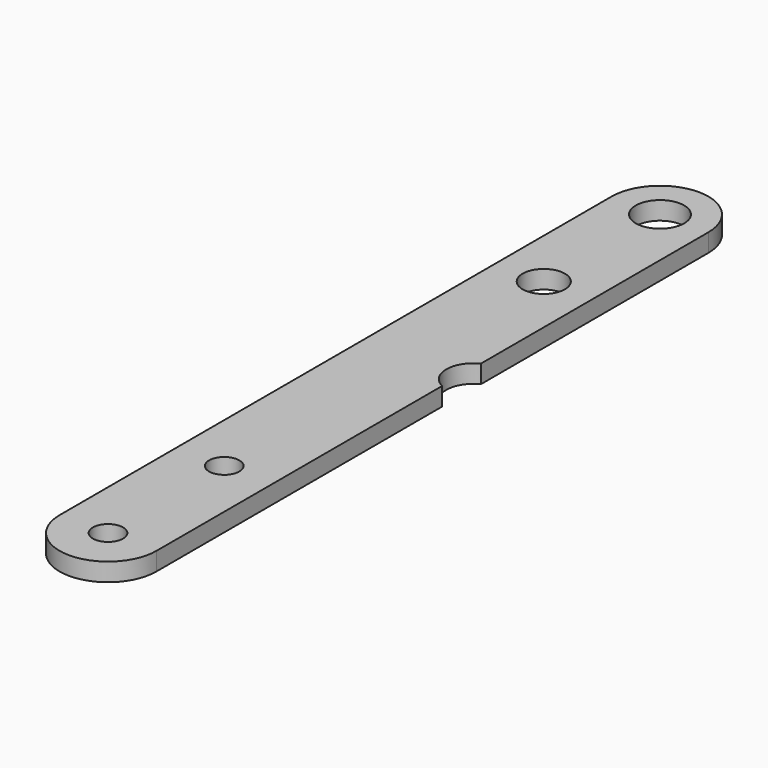
from build123d import *

# Parameters (mm, degrees)
F1_R     = 7.9375
F1_R_2   = 11.1125
F1_R_3   = 12.7
F2_DEPTH = 9.525


with BuildPart() as f2:
    # F1 (on Top) → F2 (new body)
    with BuildSketch(Plane.XY):
        with BuildLine():
            ThreePointArc((25.399975, 180.975), (-1.3e-05, 206.374987), (-25.4, 180.975))
            Line((-25.4, 180.975), (-25.4, -180.975))
            ThreePointArc((-25.4, -180.975), (-1.3e-05, -206.374987), (25.399975, -180.975))
            Line((25.399975, -180.975), (25.399975, 6.35))
            ThreePointArc((25.399975, 6.35), (17.474131, 19.05), (25.399975, 31.75))
            Line((25.399975, 31.75), (25.399975, 180.975))
        make_face()
        with Locations((-2.5e-05, -180.975)):
            Circle(F1_R, mode=Mode.SUBTRACT)
        with Locations((-2.5e-05, -104.775)):
            Circle(F1_R, mode=Mode.SUBTRACT)
        with Locations((-2.5e-05, 104.775)):
            Circle(F1_R_2, mode=Mode.SUBTRACT)
        with Locations((-2.5e-05, 180.975)):
            Circle(F1_R_3, mode=Mode.SUBTRACT)
    extrude(amount=F2_DEPTH)


solid = f2.part
